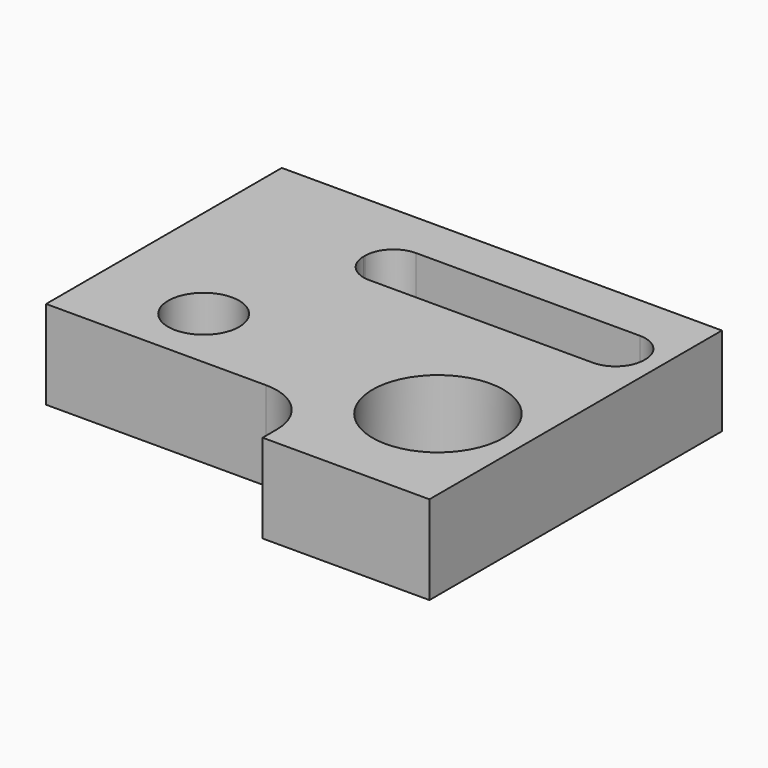
from build123d import *

# Parameters (mm, degrees)
F0_R     = 10
F0_R_2   = 18.430895
F1_DEPTH = 25


with BuildPart() as f1:
    # F0 (on Top) → F1 (new body)
    with BuildSketch(Plane.XY):
        with BuildLine():
            Line((63.997233, 52.488006), (-60.002767, 52.488006))
            Line((-60.002767, 52.488006), (-60.002767, -30.511994))
            Line((-60.002767, -30.511994), (1.997233, -30.511994))
            ThreePointArc((1.997233, -30.511994), (12.603835, -34.905392), (16.997233, -45.511994))
            Line((16.997233, -45.511994), (16.997233, -50.511994))
            Line((16.997233, -50.511994), (63.997233, -50.511994))
            Line((63.997233, -50.511994), (63.997233, 52.488006))
        make_face()
        with Locations((-30.002767, -12.511994)):
            Circle(F0_R, mode=Mode.SUBTRACT)
        with Locations((39.997233, -17.511994)):
            Circle(F0_R_2, mode=Mode.SUBTRACT)
        with BuildLine():
            Line((-11.566422, 39.262917), (51.433578, 39.262917))
            ThreePointArc((51.433578, 39.262917), (57.090432, 36.919771), (59.433578, 31.262917))
            Line((59.433578, 31.262917), (59.433578, 30.762917))
            ThreePointArc((59.433578, 30.762917), (57.090432, 25.106063), (51.433578, 22.762917))
            Line((51.433578, 22.762917), (-11.566422, 22.762917))
            ThreePointArc((-11.566422, 22.762917), (-17.223277, 25.106063), (-19.566422, 30.762917))
            Line((-19.566422, 30.762917), (-19.566422, 31.262917))
            ThreePointArc((-19.566422, 31.262917), (-17.223277, 36.919771), (-11.566422, 39.262917))
        make_face(mode=Mode.SUBTRACT)
    extrude(amount=F1_DEPTH)


solid = f1.part
